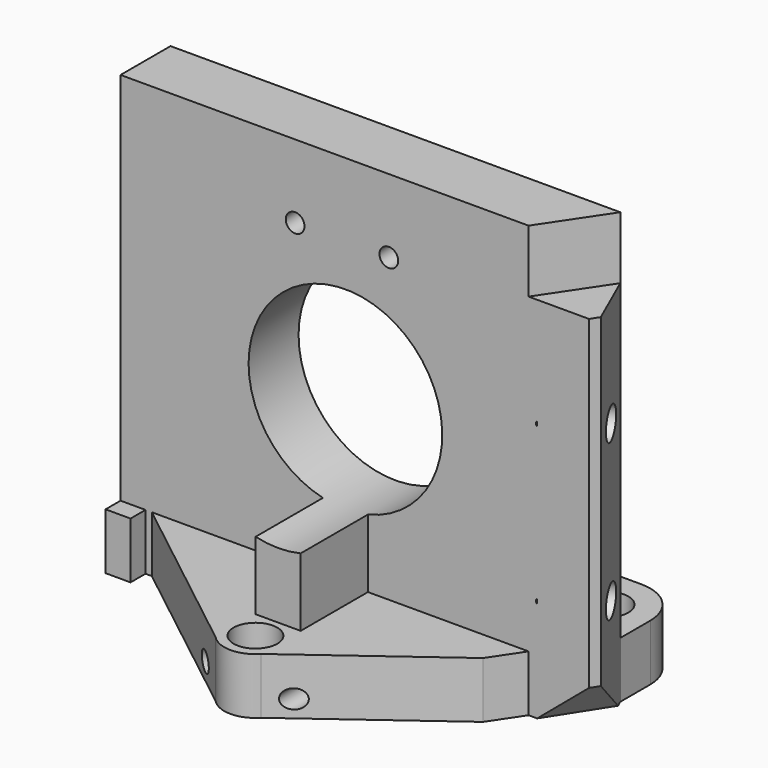
from build123d import *

# Parameters (mm, degrees)
F0_R      = 3.5
F1_DEPTH  = 9
F2_W      = 30
F2_H      = 8
F3_DEPTH  = 5
F5_DEPTH  = 60
F6_DEPTH  = 50
F7_DEPTH  = 9
F8_SIZE   = 7
F10_D     = 5
F10_DEPTH = 9
F10_TIP   = 1.5021515476
F11_W     = 7.2082555853
F11_H     = 16.9959962368
F12_DEPTH = 25
F13_R     = 1.5
F14_DEPTH = 33.001
F16_R     = 15.5
F17_DEPTH = 25


with BuildPart() as f1:
    # F0 (on Top) → F1 (new body)
    with BuildSketch(Plane.XY):
        with BuildLine():
            Line((-36, -7), (-36, -26))
            Line((-36, -26), (-32, -26))
            Line((-32, -26), (-32, -23))
            Line((-32, -23), (-31, -23))
            Line((-31, -23), (-3.6364618823, -44.4316388182))
            ThreePointArc((-3.6364618823, -44.4316388182), (0, -46), (3.6364618823, -44.4316388182))
            Line((3.6364618823, -44.4316388182), (26, -27.9666295471))
            Line((26, -27.9666295471), (36, -13))
            Line((36, -13), (36, -7))
            ThreePointArc((36, -7), (33.9497474683, -2.0502525317), (29, 0))
            Line((29, 0), (-29, 0))
            ThreePointArc((-29, 0), (-33.9497474683, -2.0502525317), (-36, -7))
        make_face()
        with Locations((0, -41)):
            Circle(F0_R, mode=Mode.SUBTRACT)
        with Locations((-29, -7)):
            Circle(F0_R, mode=Mode.SUBTRACT)
        with Locations((29, -7)):
            Circle(F0_R, mode=Mode.SUBTRACT)
    extrude(amount=F1_DEPTH)

    # F2 (on face) → F3 (cut)
    with BuildSketch(Plane.XY):
        with Locations((0, -19)):
            Rectangle(F2_W, F2_H)
    extrude(amount=F3_DEPTH, mode=Mode.SUBTRACT)

    # F4 (on face) → F5 (join)
    with BuildSketch(Plane.XY.offset(9)):
        Polygon((36, -13), (-36, -13), (-36, -23), (-32, -23), (-31, -23), (29.3184689522, -23), align=None)
        Polygon((36, -13), (-36, -13), (-36, -23), (-32, -23), (-31, -23), (29.3184689522, -23), align=None)
    extrude(amount=F5_DEPTH)

    # F4 (on face) → F6 (join)
    with BuildSketch(Plane.XY.offset(9)):
        Polygon((39.8366187696, -21.6908202384), (36, -13), (29.3184689522, -23), (39, -23), align=None)
    extrude(amount=F6_DEPTH)

    # F4 (on face) → F7 (join)
    with BuildSketch(Plane.XY.offset(9)):
        Polygon((39.8366187696, -21.6908202384), (36, -13), (29.3184689522, -23), (39, -23), align=None)
    extrude(amount=-F7_DEPTH)

    # F8
    f8_edges = [f1.edges().sort_by_distance(p)[0] for p in [
        (39.418309, -22.34541, 0),
    ]]
    chamfer(f8_edges, length=F8_SIZE)

    # F10
    with Locations(Plane(origin=(25.3255301757, 11.1801189941, 0), x_dir=(-0.4038546073, 0.914823183, 0), z_dir=(0.914823183, 0.4038546073, 0))):
        with Locations((-30.9314672426, 16.5017858054), (-30.9314672426, 41.5017858054)):
            Hole(F10_D / 2, depth=F10_DEPTH)
            with Locations((0, 0, -(F10_DEPTH + F10_TIP / 2))):  # 118° drill point
                Cone(0, F10_D / 2, F10_TIP, mode=Mode.SUBTRACT)

    # F11 (on face) → F12 (join)
    with BuildSketch(Plane.XY.offset(9)):
        with Locations((0, -27.9626622796)):
            Rectangle(F11_W, F11_H)
    extrude(amount=F12_DEPTH)

    # F13 (on face) → F14 (cut, through all)
    with BuildSketch(Plane(origin=(0, -13, 0), x_dir=(-1, 0, 0), z_dir=(0, 1, 0))):
        with Locations((-6.9500040114, 2.750000149)):
            Circle(F13_R)
        with Locations((8.0499959886, 2.750000149)):
            Circle(F13_R)
        with Locations((8.0499959886, 57.250000149)):
            Circle(F13_R)
        with Locations((-6.9500040114, 57.250000149)):
            Circle(F13_R)
    extrude(amount=-F14_DEPTH, mode=Mode.SUBTRACT)

    # F16 (on face) → F17 (cut)
    with BuildSketch(Plane(origin=(0, -13, 0), x_dir=(-1, 0, 0), z_dir=(0, 1, 0))):
        with Locations((0, 35)):
            Circle(F16_R)
    extrude(amount=-F17_DEPTH, mode=Mode.SUBTRACT)


solid = f1.part
